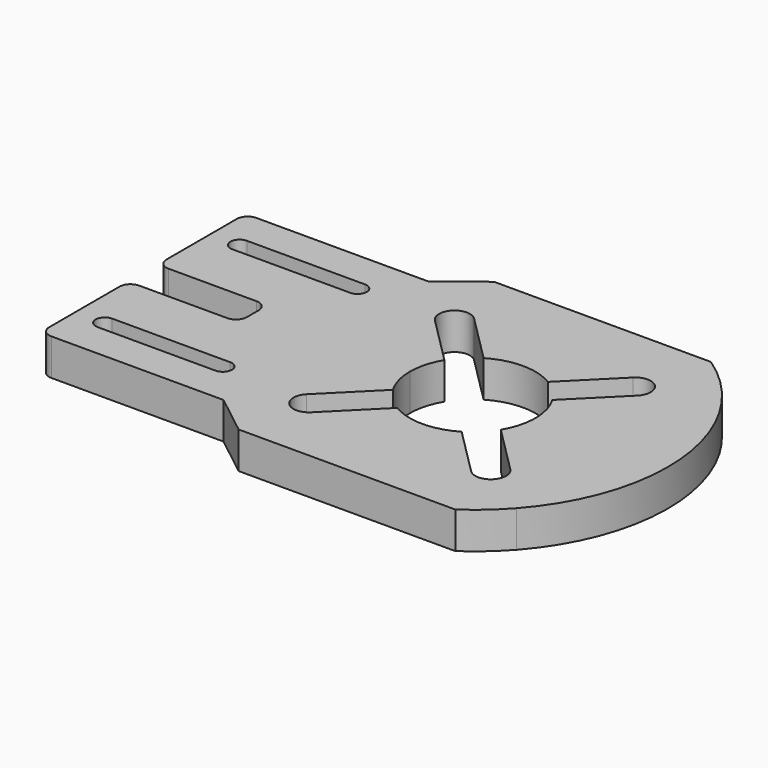
from build123d import *

# Parameters (mm, degrees)
F1_DEPTH = 5


with BuildPart() as f1:
    # F0 (on Top) → F1 (new body)
    with BuildSketch(Plane.XY):
        with BuildLine():
            ThreePointArc((0, 1.5), (0.4393398282, 0.4393398282), (1.5, 0))
            Line((1.5, 0), (25, 0))
            Line((25, 0), (65, 0))
            ThreePointArc((65, 0), (71.4464778002, 20.7708762777), (60.0819791406, 39.3136524341))
            Line((60.0819791406, 39.3136524341), (30.5175450931, 39.3136524341))
            Line((30.5175450931, 39.3136524341), (27.6975259693, 37.1089432469))
            Line((27.6975259693, 37.1089432469), (25, 35))
            Line((25, 35), (1.5, 35))
            ThreePointArc((1.5, 35), (0.4393398282, 34.5606601718), (0, 33.5))
            Line((0, 33.5), (0, 21.5))
            ThreePointArc((0, 21.5), (0.4393398282, 20.4393398282), (1.5, 20))
            Line((1.5, 20), (13.5, 20))
            ThreePointArc((13.5, 20), (14.5606601718, 19.5606601718), (15, 18.5))
            Line((15, 18.5), (15, 16.5))
            ThreePointArc((15, 16.5), (14.5606601718, 15.4393398282), (13.5, 15))
            Line((13.5, 15), (1.5, 15))
            ThreePointArc((1.5, 15), (0.4393398282, 14.5606601718), (0, 13.5))
            Line((0, 13.5), (0, 1.5))
        make_face()
        with BuildLine():
            Line((4.0085639487, 7.249971952), (20.1081790887, 7.249971952))
            ThreePointArc((20.1081790887, 7.249971952), (21.3499933102, 5.995909145), (20.1, 4.7499987112))
            Line((20.1, 4.7499987112), (3.9999999999, 4.7499987112))
            ThreePointArc((3.9999999999, 4.7499987112), (2.7500060453, 6.0042819995), (4.0085639487, 7.249971952))
        make_face(mode=Mode.SUBTRACT)
        with BuildLine():
            ThreePointArc((31.1420068494, 28.3910719436), (31.1423347752, 31.3609204065), (34.1121832381, 31.3605924806))
            Line((34.1121832381, 31.3605924806), (40.6040275048, 24.8673144178))
            ThreePointArc((40.6040275048, 24.8673144178), (45.0010519537, 26.0791546672), (49.397779085, 24.8662361508))
            Line((49.397779085, 24.8662361508), (55.8514336057, 31.3183641885))
            ThreePointArc((55.8514336057, 31.3183641885), (58.8212820659, 31.3180129178), (58.8209307952, 28.3481644576))
            Line((58.8209307952, 28.3481644576), (52.3672762745, 21.8960364199))
            ThreePointArc((52.3672762745, 21.8960364199), (53.5791546716, 17.4989852662), (52.3662361508, 13.102220915))
            Line((52.3662361508, 13.102220915), (58.8580048217, 6.6089163826))
            ThreePointArc((58.8580048217, 6.6089163826), (58.857653551, 3.6390679224), (55.8878050908, 3.6394191931))
            Line((55.8878050908, 3.6394191931), (49.3960364199, 10.1327237255))
            ThreePointArc((49.3960364199, 10.1327237255), (44.9989852662, 8.9208453284), (40.602220915, 10.1337638492))
            Line((40.602220915, 10.1337638492), (34.0693929379, 3.6024810821))
            ThreePointArc((34.0693929379, 3.6024810821), (31.0995444777, 3.6028323528), (31.0998957484, 6.572680813))
            Line((31.0998957484, 6.572680813), (37.6327237255, 13.1039635801))
            ThreePointArc((37.6327237255, 13.1039635801), (36.7293622066, 15.2199898246), (36.4208452683, 17.5))
            ThreePointArc((36.4208452683, 17.5), (36.7296418376, 19.7810242821), (37.6338020079, 21.8978429998))
            Line((37.6338020079, 21.8978429998), (31.1420068494, 28.3910719436))
        make_face(mode=Mode.SUBTRACT)
        with BuildLine():
            ThreePointArc((4, 27.75), (2.7500032922, 29.0028688638), (4.0057377125, 30.2499868314))
            Line((4.0057377125, 30.2499868314), (20.1, 30.2499868314))
            ThreePointArc((20.1, 30.2499868314), (21.3499967078, 28.9971179676), (20.0942622875, 27.75))
            Line((20.0942622875, 27.75), (4, 27.75))
        make_face(mode=Mode.SUBTRACT)
        with BuildLine():
            Line((65, 0), (25, 0))
            Line((25, 0), (30.5175450931, -4.3136524341))
            Line((30.5175450931, -4.3136524341), (60.0819791406, -4.3136524341))
            ThreePointArc((60.0819791406, -4.3136524341), (62.675372133, -2.310036578), (65, 0))
        make_face()
        with BuildLine():
            Line((27.6975259693, 37.1089432469), (30.5175450931, 39.3136524341))
            ThreePointArc((30.5175450931, 39.3136524341), (29.070055174, 38.2592385507), (27.6975259693, 37.1089432469))
        make_face()
    extrude(amount=F1_DEPTH)


solid = f1.part
